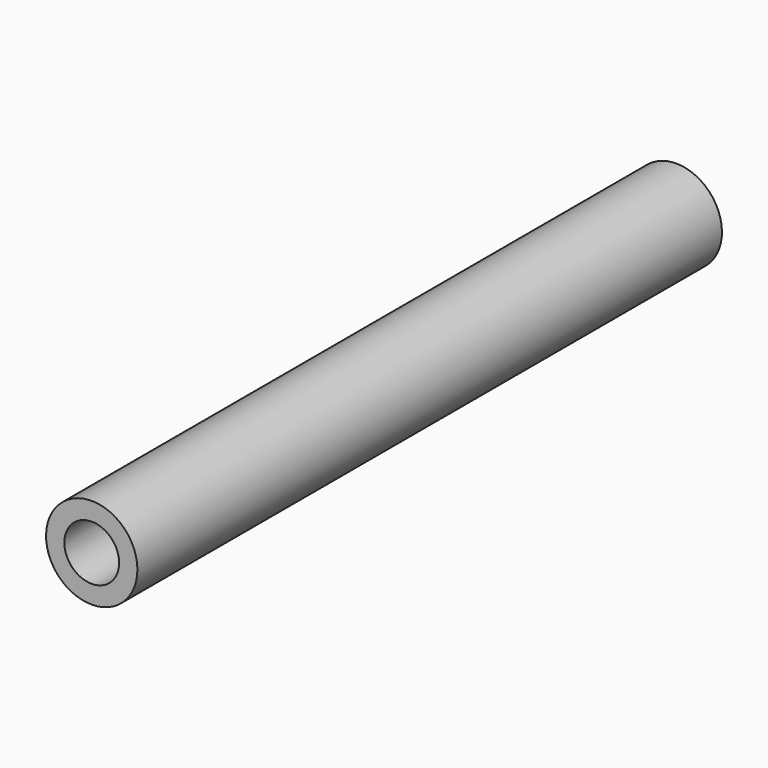
from build123d import *

# Parameters (mm, degrees)
CYLINDER003_R           = 1.5
CYLINDER003_DEPTH       = 44
CYLINDER003_PITCH_ANGLE = 90
CYLINDER002_R           = 2.5
CYLINDER002_DEPTH       = 40
CYLINDER002_PITCH_ANGLE = 90
CUT005_PLACEMENT_ANGLE  = 90


with BuildPart() as cilindro003:
    # Cylinder003 → Cylinder003 (new body)
    with BuildSketch(Plane.XY):
        Circle(CYLINDER003_R)
    extrude(amount=CYLINDER003_DEPTH)


with BuildPart() as cilindro003_1:
    # Cylinder003 pitch: moved
    add(cilindro003.part.rotate(Axis((0, 0, 0), (0, 1, 0)), CYLINDER003_PITCH_ANGLE))


with BuildPart() as cilindro003_2:
    # Cylinder003 placement: moved
    add(cilindro003_1.part.moved(Location((-2, 0, 0))))


with BuildPart() as soporte006:
    # Cylinder002 → Cylinder002 (new body)
    with BuildSketch(Plane.XY):
        Circle(CYLINDER002_R)
    extrude(amount=CYLINDER002_DEPTH)


with BuildPart() as soporte006_1:
    # Cylinder002 pitch: moved
    add(soporte006.part.rotate(Axis((0, 0, 0), (0, 1, 0)), CYLINDER002_PITCH_ANGLE))


with BuildPart() as soporte006_2:
    # Cylinder002 placement: moved
    add(soporte006_1.part)

    # Cut005: cut Cilindro003
    add(cilindro003_2.part, mode=Mode.SUBTRACT)


with BuildPart() as soporte006_3:
    # Cut005 placement: moved
    add(soporte006_2.part.moved(Location((-96.5, 125, 123.5))).rotate(Axis((-96.5, 125, 123.5), (0, 0, 1)), CUT005_PLACEMENT_ANGLE))


solid = soporte006_3.part
